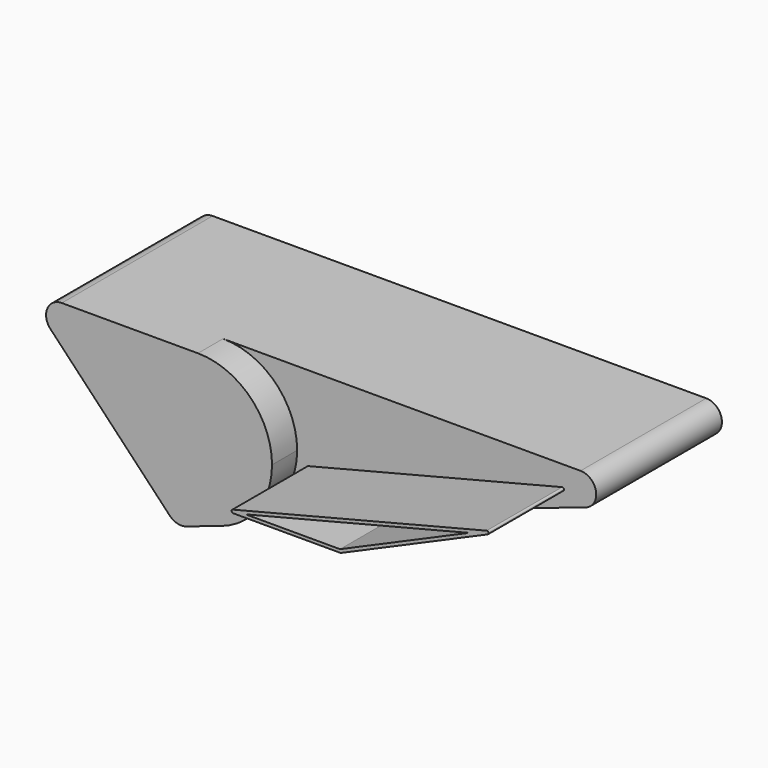
from build123d import *

# Parameters (mm, degrees)
F1_DEPTH = 600
F2_R     = 50
F4_DEPTH = 100
F6_DEPTH = 300
F7_R     = 5
F8_T     = -10


with BuildPart() as f1:
    # F0 (on Front) → F1 (new body)
    with BuildSketch(Plane.XZ):
        Polygon((1356.1212984358, 0), (-637.3533882356, 0), (-155.0012858751, -507.2834014122), align=None)
    extrude(amount=F1_DEPTH)

    # F2
    f2_edges = [f1.edges().sort_by_distance(p)[0] for p in [
        (-155.001286, -300, -507.283401),
        (1356.121298, -300, 0),
        (-637.353388, -300, 0),
    ]]
    fillet(f2_edges, radius=F2_R)

    # F3 (on face) → F4 (cut)
    with BuildSketch(Plane.XZ.offset(600)):
        with BuildLine():
            ThreePointArc((-87.6147770705, 0), (79.1656448578, -69.0827124902), (148.2483575879, -235.8631343192))
            ThreePointArc((148.2483575879, -235.8631343192), (103.8739908829, -373.5710498814), (-12.5522699729, -459.4633092073))
            Line((-12.5522699729, -459.4633092073), (1065.979821355, -97.4004074272))
            ThreePointArc((1065.979821355, -97.4004074272), (1099.4133410746, -41.9383739655), (1050.0675187015, 0))
            Line((1050.0675187015, 0), (-87.6147770705, 0))
        make_face()
    extrude(amount=-F4_DEPTH, mode=Mode.SUBTRACT)


with BuildPart() as f6:
    # F5 (on face) → F6 (new body)
    with BuildSketch(Plane.XZ.offset(500)):
        Polygon((526.7137780926, -278.431857511), (1050.0675187015, -50), (144.3751410167, -278.431857511), align=None)
    extrude(amount=F6_DEPTH)

    # F7
    f7_edges = [f6.edges().sort_by_distance(p)[0] for p in [
        (144.375141, -650, -278.431858),
        (1050.067519, -650, -50),
        (526.713778, -650, -278.431858),
    ]]
    fillet(f7_edges, radius=F7_R)

    # F8
    f8_openings = [f6.faces().sort_by_distance(p)[0] for p in [
        (572.555984, -800, -202.870106),
    ]]
    offset(amount=F8_T, openings=f8_openings)


solid = Compound([f1.part, f6.part])
